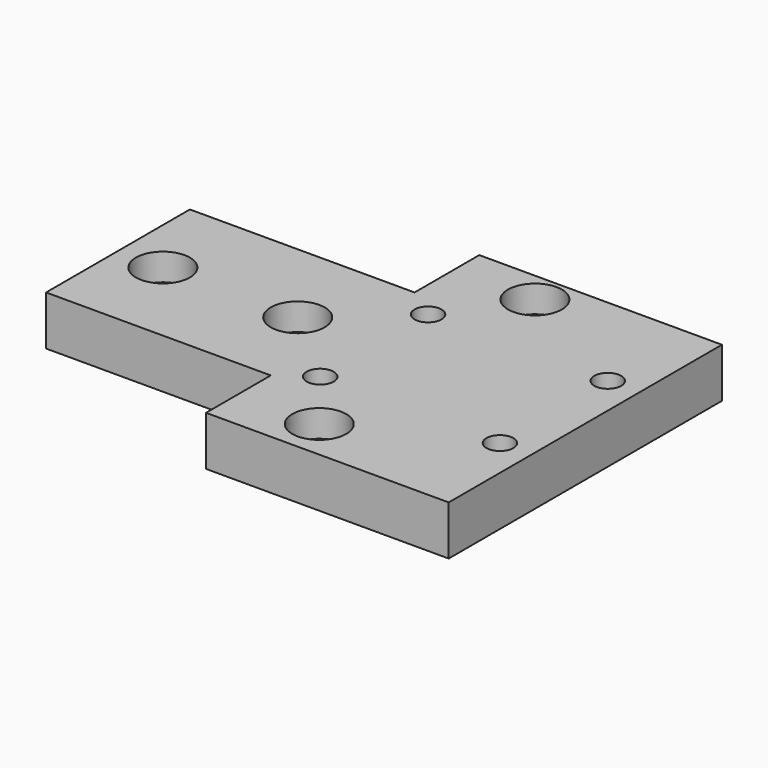
from build123d import *

# Parameters (mm, degrees)
F0_W           = 27
F0_H           = 38
F0_W_2         = 20
F0_H_2         = 15
F1_DEPTH       = 5.5
F2_D           = 3
F2_DEPTH       = 50
F2_CBORE_D     = 6
F2_CBORE_DEPTH = 3
F4_D           = 3
F4_DEPTH       = 50
F4_CBORE_D     = 6
F4_CBORE_DEPTH = 3
F5_W           = 20
F5_H           = 5.5
F6_DEPTH       = 25
F8_D           = 3
F8_DEPTH       = 50
F8_CBORE_D     = 6
F8_CBORE_DEPTH = 3


with BuildPart() as f1:
    # F0 (on Top) → F1 (new body)
    with BuildSketch(Plane.XY):
        Rectangle(F0_W, F0_H)
        Rectangle(F0_W_2, F0_H_2, mode=Mode.SUBTRACT)
        Rectangle(F0_W_2, F0_H_2)
    extrude(amount=F1_DEPTH)

    # F2
    with Locations(Plane(origin=(0, 0, 0), x_dir=(1, 0, 0), z_dir=(0, 0, -1))):
        with Locations((-10, -7.5), (-10, 7.5), (10, -7.5), (10, 7.5)):
            CounterBoreHole(F2_D / 2, F2_CBORE_D / 2, F2_CBORE_DEPTH, depth=F2_DEPTH)

    # F4
    with Locations(Plane.XY.offset(5.5)):
        with Locations((-4.5, -14.503504), (-4.5, 15.496496)):
            CounterBoreHole(F4_D / 2, F4_CBORE_D / 2, F4_CBORE_DEPTH, depth=F4_DEPTH)

    # F5 (on face) → F6 (join)
    with BuildSketch(Plane(origin=(-13.5, 0, 0), x_dir=(0, -1, 0), z_dir=(-1, 0, 0))):
        with Locations((0, 2.75)):
            Rectangle(F5_W, F5_H)
    extrude(amount=F6_DEPTH)

    # F8
    with Locations(Plane.XY.offset(5.5)):
        with Locations((-33.5, 0), (-18.5, 0)):
            CounterBoreHole(F8_D / 2, F8_CBORE_D / 2, F8_CBORE_DEPTH, depth=F8_DEPTH)


solid = f1.part
